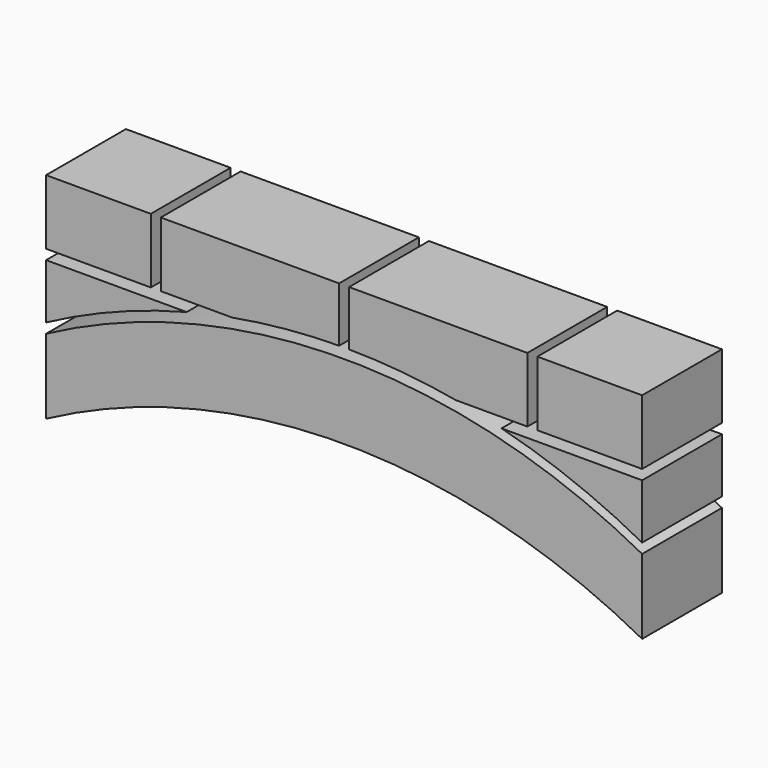
from build123d import *

# Parameters (mm, degrees)
F0_W     = 105
F0_H     = 65
F1_DEPTH = 100


with BuildPart() as f1:
    # F0 (on Front) → F1 (new body)
    with BuildSketch(Plane.XZ):
        with Locations((52.5, 182.5)):
            Rectangle(F0_W, F0_H)
        with BuildLine():
            Line((115, 150), (186.722288, 150))
            ThreePointArc((186.722288, 150), (240.023748, 157.267842), (293.75, 159.980237))
            Line((293.75, 159.980237), (293.75, 215))
            Line((293.75, 215), (115, 215))
            Line((115, 215), (115, 150))
        make_face()
        with BuildLine():
            ThreePointArc((303.75, 159.980237), (357.476252, 157.267842), (410.777712, 150))
            Line((410.777712, 150), (482.5, 150))
            Line((482.5, 150), (482.5, 215))
            Line((482.5, 215), (303.75, 215))
            Line((303.75, 215), (303.75, 159.980237))
        make_face()
        with Locations((545, 182.5)):
            Rectangle(F0_W, F0_H)
        with BuildLine():
            ThreePointArc((456.548659, 140), (528.674813, 116.729779), (597.5, 85))
            Line((597.5, 85), (597.5, 140))
            Line((597.5, 140), (456.548659, 140))
        make_face()
        with BuildLine():
            Line((0, 75), (0, 0))
            ThreePointArc((0, 0), (298.75, 75), (597.5, 0))
            Line((597.5, 0), (597.5, 75))
            ThreePointArc((597.5, 75), (298.75, 150), (0, 75))
        make_face()
        with BuildLine():
            Line((0, 140), (0, 85))
            ThreePointArc((0, 85), (68.825187, 116.729779), (140.951341, 140))
            Line((140.951341, 140), (0, 140))
        make_face()
    extrude(amount=F1_DEPTH)


solid = f1.part
